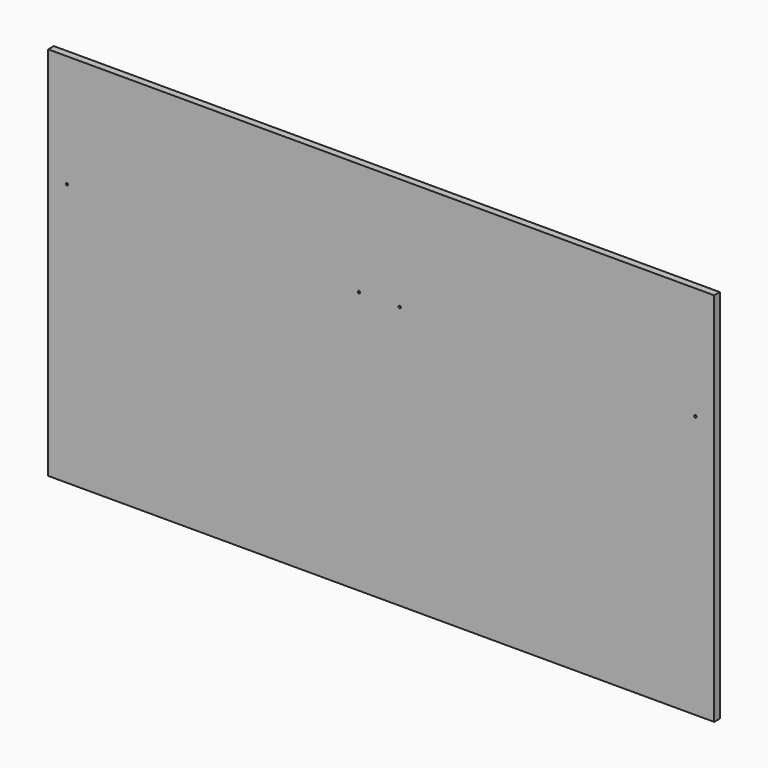
from build123d import *

# Parameters (mm, degrees)
F0_W     = 1801.6
F0_H     = 1016
F0_R     = 3.175
F1_DEPTH = 9.525


with BuildPart() as f1:
    # F0 (on Front) → F1 (new body, symmetric)
    with BuildSketch(Plane.XZ):
        Rectangle(F0_W, F0_H)
        with Locations((-850, 203.2)):
            Circle(F0_R, mode=Mode.SUBTRACT)
        with Locations((-60, 203.2)):
            Circle(F0_R, mode=Mode.SUBTRACT)
        with Locations((50, 203.2)):
            Circle(F0_R, mode=Mode.SUBTRACT)
        with Locations((850, 203.2)):
            Circle(F0_R, mode=Mode.SUBTRACT)
    extrude(amount=F1_DEPTH, both=True)


solid = f1.part
